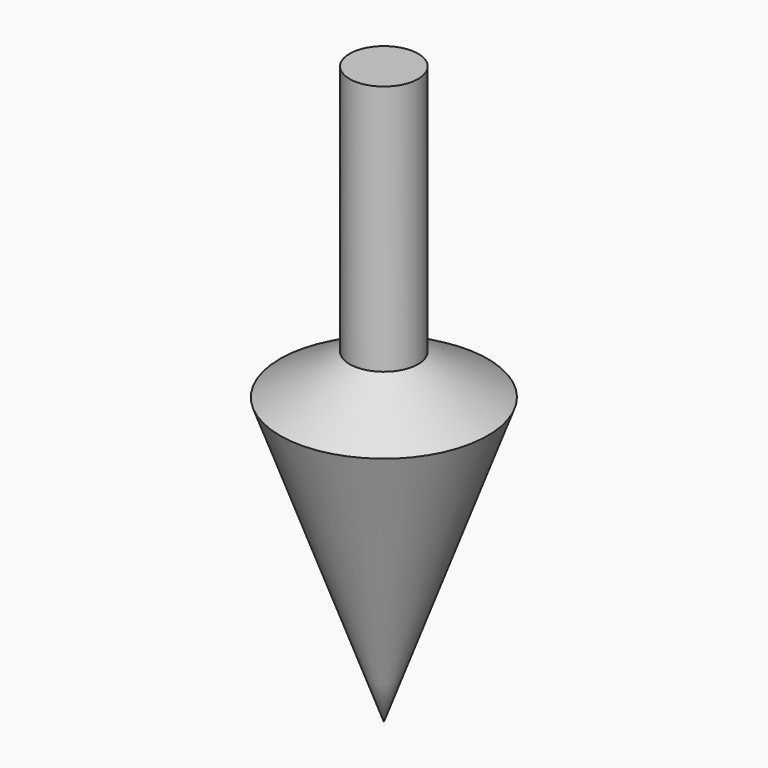
from build123d import *

# Parameters (mm, degrees)
F0_W = 19.29638
F0_H = 141.47546


with BuildPart() as f1:
    # F0 (on Front) → F1 (revolve)
    with BuildSketch(Plane.XZ):
        Polygon((0, -22.6822), (0, 0), (-19.29638, 0), (-58.5724, -22.6822), align=None)
        with Locations((-9.64819, 70.73773)):
            Rectangle(F0_W, F0_H)
        Polygon((0, -183.7182), (0, -22.6822), (-58.5724, -22.6822), align=None)
    revolve(axis=Axis((0, 0, 70.73773), (0, 0, -1)))


solid = f1.part
